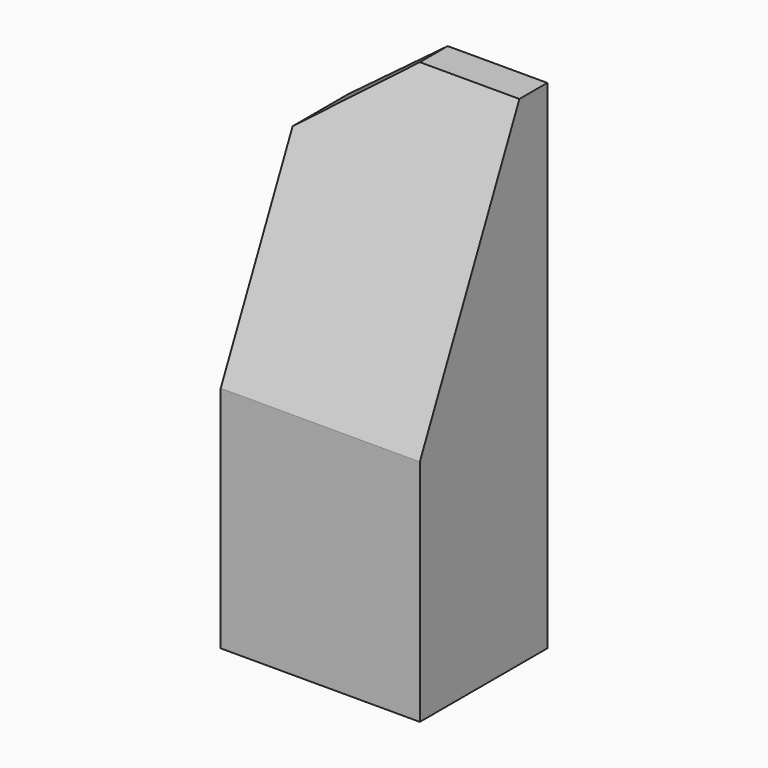
from build123d import *

# Parameters (mm, degrees)
F0_W     = 200
F0_H     = 160
F1_DEPTH = 500
F2_SIZE2 = 75
F2_SIZE  = 100
F3_SIZE2 = 270
F3_SIZE  = 125


with BuildPart() as f1:
    # F0 (on Top) → F1 (new body)
    with BuildSketch(Plane.XY):
        with Locations((-100, -80)):
            Rectangle(F0_W, F0_H)
    extrude(amount=F1_DEPTH)

    # F2
    f2_edges = [f1.edges().sort_by_distance(p)[0] for p in [
        (-200, -80, 500),
    ]]
    f2_side = f1.faces().sort_by_distance((-100, -80, 500))[0]
    chamfer(f2_edges, length=F2_SIZE, length2=F2_SIZE2, reference=f2_side)

    # F3
    f3_edges = [f1.edges().sort_by_distance(p)[0] for p in [
        (-50, -160, 500),
    ]]
    f3_side = f1.faces().sort_by_distance((-50, -80, 500))[0]
    chamfer(f3_edges, length=F3_SIZE, length2=F3_SIZE2, reference=f3_side)


solid = f1.part
